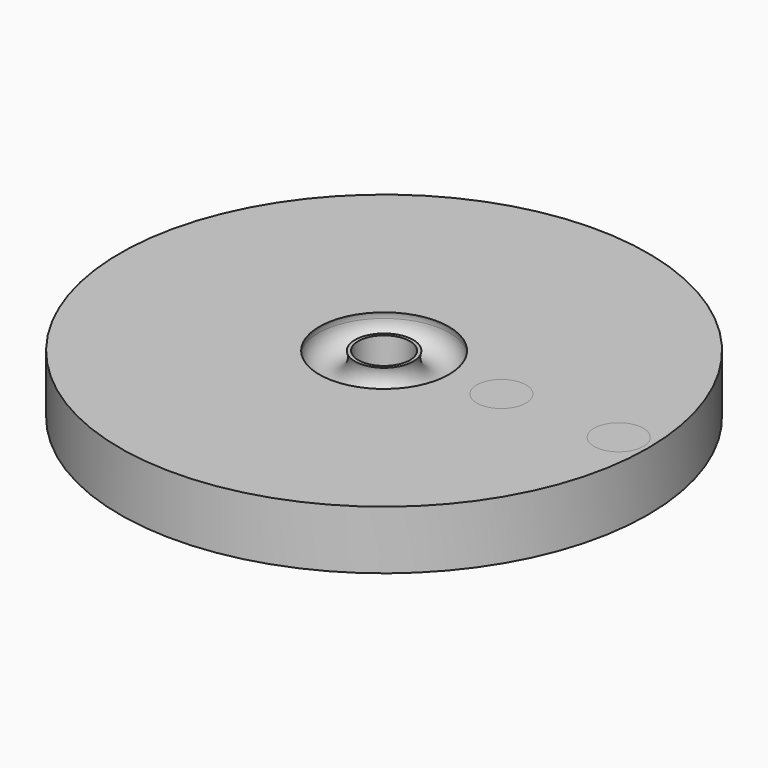
from build123d import *

# Parameters (mm, degrees)
CYLINDER001_R                        = 4.4
CYLINDER001_DEPTH                    = 10
SKETCH002_AS_DRAWN_R                 = 3.2
REVOLVE001_ONTO_SKETCH002_ROLL_ANGLE = 90
SKETCH001_AS_DRAWN_R                 = 3.2
REVOLVE_ONTO_SKETCH001_ROLL_ANGLE    = 90
CYLINDER_R                           = 45
CYLINDER_DEPTH                       = 10
CYLINDER002_R                        = 4.2
CYLINDER002_DEPTH                    = 10
CYLINDER003_R                        = 4.2
CYLINDER003_DEPTH                    = 10


with BuildPart() as cylinder001:
    # Cylinder001 → Cylinder001 (new body)
    with BuildSketch(Plane.XY):
        Circle(CYLINDER001_R)
    extrude(amount=CYLINDER001_DEPTH)


with BuildPart() as revolve001:
    # Sketch002 as drawn → Revolve001 (revolve)
    with BuildSketch(Plane.XY):
        with Locations((8.007105, 0)):
            Circle(SKETCH002_AS_DRAWN_R)
    revolve(axis=Axis((0, 0, 0), (0, 1, 0)))


with BuildPart() as revolve001_1:
    # Revolve001 onto Sketch002 roll: moved
    add(revolve001.part.rotate(Axis((0, 0, 0), (1, 0, 0)), REVOLVE001_ONTO_SKETCH002_ROLL_ANGLE))


with BuildPart() as revolve001_2:
    # Revolve001 onto Sketch002 placement: moved
    add(revolve001_1.part)


with BuildPart() as revolve001_3:
    # Revolve001 placement: moved
    add(revolve001_2.part.moved(Location((0, 0, 9))))


with BuildPart() as revolve_body:
    # Sketch001 as drawn → Revolve (revolve)
    with BuildSketch(Plane.XY):
        with Locations((8.007105, 0)):
            Circle(SKETCH001_AS_DRAWN_R)
    revolve(axis=Axis((0, 0, 0), (0, 1, 0)))


with BuildPart() as revolve_body_1:
    # Revolve onto Sketch001 roll: moved
    add(revolve_body.part.rotate(Axis((0, 0, 0), (1, 0, 0)), REVOLVE_ONTO_SKETCH001_ROLL_ANGLE))


with BuildPart() as revolve_body_2:
    # Revolve onto Sketch001 placement: moved
    add(revolve_body_1.part)


with BuildPart() as revolve_body_3:
    # Revolve placement: moved
    add(revolve_body_2.part.moved(Location((0, 0, 1))))


with BuildPart() as cut002:
    # Cylinder → Cylinder (new body)
    with BuildSketch(Plane.XY):
        Circle(CYLINDER_R)
    extrude(amount=CYLINDER_DEPTH)

    # Cut: cut Revolve body
    add(revolve_body_3.part, mode=Mode.SUBTRACT)

    # Cut001: cut Revolve001
    add(revolve001_3.part, mode=Mode.SUBTRACT)

    # Cut002: cut Cylinder001
    add(cylinder001.part, mode=Mode.SUBTRACT)


with BuildPart() as cylinder002:
    # Cylinder002 → Cylinder002 (new body)
    with BuildSketch(Plane(origin=(40, 0, 0), x_dir=(1, 0, 0), z_dir=(0, 0, 1))):
        Circle(CYLINDER002_R)
    extrude(amount=CYLINDER002_DEPTH)


with BuildPart() as cylinder003:
    # Cylinder003 → Cylinder003 (new body)
    with BuildSketch(Plane(origin=(20, 0, 0), x_dir=(1, 0, 0), z_dir=(0, 0, 1))):
        Circle(CYLINDER003_R)
    extrude(amount=CYLINDER003_DEPTH)


solid = Compound([cut002.part, cylinder002.part, cylinder003.part])
